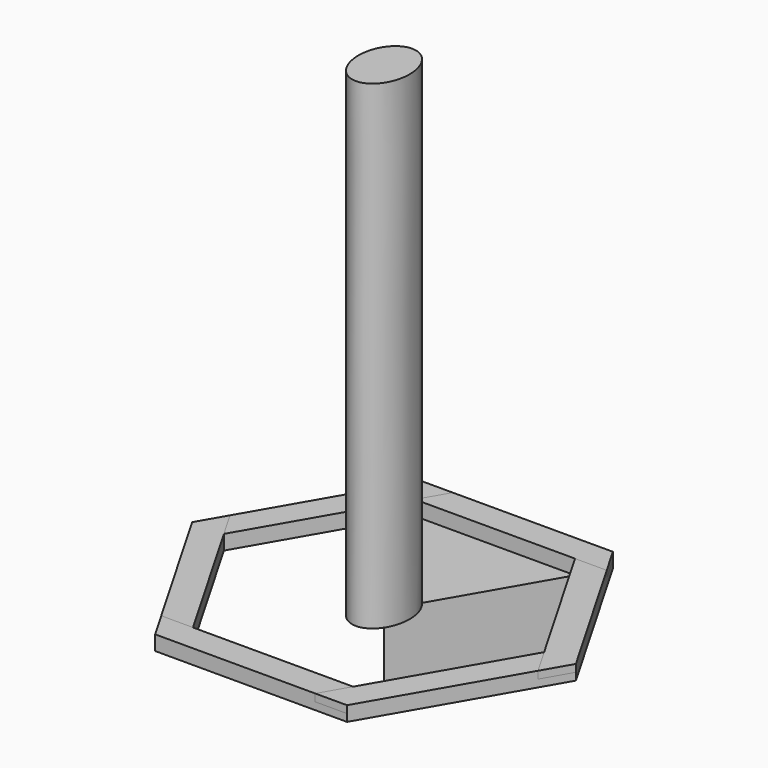
from build123d import *

# Parameters (mm, degrees)
F1_DEPTH  = 23
F3_DEPTH  = 11.5
F5_DEPTH  = 11.5
F7_DEPTH  = 100
F8_COUNT  = 6
F10_DEPTH = 750


with BuildPart() as f1:
    # F0 (on Top) → F1 (new body)
    with BuildSketch(Plane.XY):
        Polygon((-24.8260615752, 43), (0, 0), (300, 0), (275.1739384248, 43), align=None)
    extrude(amount=F1_DEPTH)

    # F2 (on face) → F3 (cut)
    with BuildSketch(Plane.XY.offset(23)):
        Polygon((-24.8260615752, 43), (0, 0), (24.8260615752, 43), align=None)
    extrude(amount=-F3_DEPTH, mode=Mode.SUBTRACT)

    # F4 (on face) → F5 (cut)
    with BuildSketch(Plane(origin=(0, 0, 0), x_dir=(1, 0, 0), z_dir=(0, 0, -1))):
        Polygon((250.3478768497, 0), (275.1739384248, -43), (300, 0), align=None)
    extrude(amount=-F5_DEPTH, mode=Mode.SUBTRACT)


with BuildPart() as f7:
    # F6 (on Top) → F7 (new body)
    with BuildSketch(Plane.XY):
        Polygon((250.3478768497, 0), (0, 0), (125.1739384248, -216.8076211353), align=None)
    extrude(amount=-F7_DEPTH)


with BuildPart() as f8_1:
    # F8: instance of F1
    add(f1.part.rotate(Axis((125.1739384248, -216.8076211353, -50), (0, 0, 1)), 1 * 360 / F8_COUNT))


with BuildPart() as f8_2:
    # F8: instance of F1
    add(f1.part.rotate(Axis((125.1739384248, -216.8076211353, -50), (0, 0, 1)), 2 * 360 / F8_COUNT))


with BuildPart() as f8_3:
    # F8: instance of F1
    add(f1.part.rotate(Axis((125.1739384248, -216.8076211353, -50), (0, 0, 1)), 3 * 360 / F8_COUNT))


with BuildPart() as f8_4:
    # F8: instance of F1
    add(f1.part.rotate(Axis((125.1739384248, -216.8076211353, -50), (0, 0, 1)), 4 * 360 / F8_COUNT))


with BuildPart() as f8_5:
    # F8: instance of F1
    add(f1.part.rotate(Axis((125.1739384248, -216.8076211353, -50), (0, 0, 1)), 5 * 360 / F8_COUNT))


with BuildPart() as f10:
    # F9 (on face) → F10 (new body)
    with BuildSketch(Plane(origin=(0, 0, 0), x_dir=(1, 0, 0), z_dir=(0, 0, -1))):
        with BuildLine():
            Line((105.1739384248, 228.3546265191), (105.1739384248, 264.4390183435))
            add(Edge.make_bspline(
                [(105.1739384248, 264.4390183435), (85.1739384248, 248.5618859408), (85.1739384248, 216.8076211353)],
                knots=[3.6651914292, 3.6651914292, 3.6651914292, 4.7123889804, 4.7123889804, 4.7123889804], degree=2, weights=[1, 0.8660254038, 1]))
            Line((85.1739384248, 216.8076211353), (105.1739384248, 228.3546265191))
        make_face()
        with BuildLine():
            add(Edge.make_bspline(
                [(145.1739384248, 264.4390183435), (125.1739384248, 280.3161507462), (105.1739384248, 264.4390183435)],
                knots=[2.617993878, 2.617993878, 2.617993878, 3.6651914292, 3.6651914292, 3.6651914292], degree=2, weights=[1, 0.8660254038, 1]))
            Line((105.1739384248, 264.4390183435), (105.1739384248, 228.3546265191))
            Line((105.1739384248, 228.3546265191), (125.1739384248, 216.8076211353))
            Line((125.1739384248, 216.8076211353), (145.1739384248, 228.3546265191))
            Line((145.1739384248, 228.3546265191), (145.1739384248, 264.4390183435))
        make_face()
        with BuildLine():
            Line((125.1739384248, 216.8076211353), (105.1739384248, 228.3546265191))
            Line((105.1739384248, 228.3546265191), (85.1739384248, 216.8076211353))
            add(Edge.make_bspline(
                [(85.1739384248, 216.8076211353), (85.1739384248, 193.7136103677), (97.1645707433, 177.542394397)],
                knots=[4.7123889804, 4.7123889804, 4.7123889804, 5.5074598234, 5.5074598234, 5.5074598234], degree=2, weights=[1, 0.9220179478, 1]))
            Line((97.1645707433, 177.542394397), (125.1739384248, 193.7136103677))
            Line((125.1739384248, 193.7136103677), (125.1739384248, 216.8076211353))
        make_face()
        with BuildLine():
            Line((125.1739384248, 193.7136103677), (97.1645707433, 177.542394397))
            add(Edge.make_bspline(
                [(97.1645707433, 177.542394397), (108.8315895462, 161.8076211353), (125.1739384248, 161.8076211353)],
                knots=[5.5074598234, 5.5074598234, 5.5074598234, 6.2831853072, 6.2831853072, 6.2831853072], degree=2, weights=[1, 0.9257195076, 1]))
            add(Edge.make_bspline(
                [(125.1739384248, 161.8076211353), (141.5162873035, 161.8076211353), (153.1833061063, 177.542394397)],
                knots=[0, 0, 0, 0.7757254838, 0.7757254838, 0.7757254838], degree=2, weights=[1, 0.9257195076, 1]))
            Line((153.1833061063, 177.542394397), (125.1739384248, 193.7136103677))
        make_face()
        with BuildLine():
            Line((145.1739384248, 228.3546265191), (125.1739384248, 216.8076211353))
            Line((125.1739384248, 216.8076211353), (125.1739384248, 193.7136103677))
            Line((125.1739384248, 193.7136103677), (153.1833061063, 177.542394397))
            add(Edge.make_bspline(
                [(153.1833061063, 177.542394397), (165.1739384248, 193.7136103677), (165.1739384248, 216.8076211353)],
                knots=[0.7757254838, 0.7757254838, 0.7757254838, 1.5707963268, 1.5707963268, 1.5707963268], degree=2, weights=[1, 0.9220179478, 1]))
            Line((165.1739384248, 216.8076211353), (145.1739384248, 228.3546265191))
        make_face()
        with BuildLine():
            add(Edge.make_bspline(
                [(165.1739384248, 216.8076211353), (165.1739384248, 248.5618859408), (145.1739384248, 264.4390183435)],
                knots=[1.5707963268, 1.5707963268, 1.5707963268, 2.617993878, 2.617993878, 2.617993878], degree=2, weights=[1, 0.8660254038, 1]))
            Line((145.1739384248, 264.4390183435), (145.1739384248, 228.3546265191))
            Line((145.1739384248, 228.3546265191), (165.1739384248, 216.8076211353))
        make_face()
    extrude(amount=-F10_DEPTH)


solid = Compound([f1.part, f7.part, f8_1.part, f8_2.part, f8_3.part, f8_4.part, f8_5.part, f10.part])
